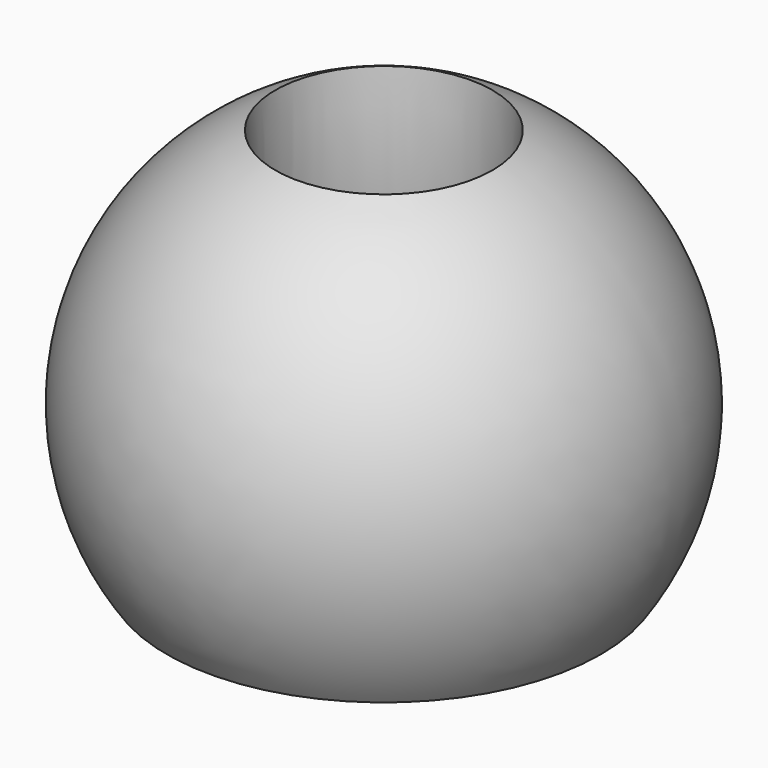
from build123d import *


with BuildPart() as f1:
    # F0 (on Front) → F1 (revolve)
    with BuildSketch(Plane.XZ):
        with BuildLine():
            ThreePointArc((-187.03734, 47.115216), (-173.817368, -94.629237), (-112.03734, -222.884784))
            ThreePointArc((-112.03734, -222.884784), (-86.306723, -70.320724), (-187.03734, 47.115216))
        make_face()
    revolve(axis=Axis((-262.03734, 0, -119.134784), (0, 0, -1)))


solid = f1.part
